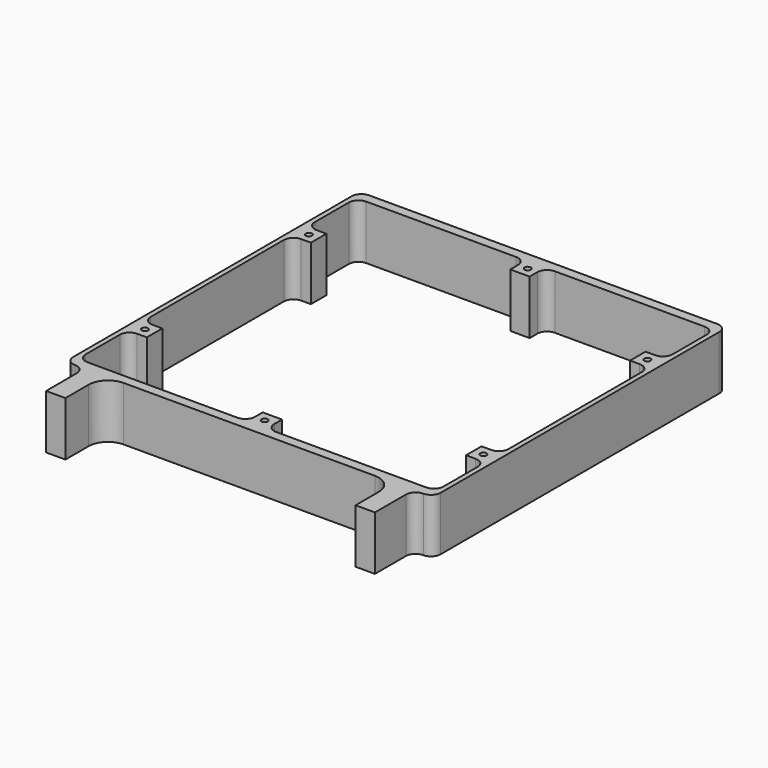
from build123d import *

# Parameters (mm, degrees)
F0_R     = 1.016
F1_DEPTH = 17.78


with BuildPart() as f1:
    # F0 (on Top) → F1 (new body)
    with BuildSketch(Plane.XY):
        with BuildLine():
            Line((57.15, 60.325), (-57.15, 60.325))
            ThreePointArc((-57.15, 60.325), (-59.395064, 59.395064), (-60.325, 57.15))
            Line((-60.325, 57.15), (-60.325, -57.15))
            ThreePointArc((-60.325, -57.15), (-59.395064, -59.395064), (-57.15, -60.325))
            ThreePointArc((-57.15, -60.325), (-54.904936, -61.254936), (-53.975, -63.5))
            Line((-53.975, -63.5), (-53.975, -76.2))
            Line((-53.975, -76.2), (-47.625, -76.2))
            Line((-47.625, -76.2), (-47.625, -66.675))
            ThreePointArc((-47.625, -66.675), (-45.765128, -62.184872), (-41.275, -60.325))
            Line((-41.275, -60.325), (41.275, -60.325))
            ThreePointArc((41.275, -60.325), (45.765128, -62.184872), (47.625, -66.675))
            Line((47.625, -66.675), (47.625, -76.2))
            Line((47.625, -76.2), (53.975, -76.2))
            Line((53.975, -76.2), (53.975, -63.5))
            ThreePointArc((53.975, -63.5), (54.904936, -61.254936), (57.15, -60.325))
            ThreePointArc((57.15, -60.325), (59.395064, -59.395064), (60.325, -57.15))
            Line((60.325, -57.15), (60.325, 57.15))
            ThreePointArc((60.325, 57.15), (59.395064, 59.395064), (57.15, 60.325))
        make_face()
        with Locations((-55.5625, -33.655)):
            Circle(F0_R, mode=Mode.SUBTRACT)
        with Locations((0, -53.975)):
            Circle(F0_R, mode=Mode.SUBTRACT)
        with Locations((55.5625, -33.655)):
            Circle(F0_R, mode=Mode.SUBTRACT)
        with Locations((-55.5625, 33.655)):
            Circle(F0_R, mode=Mode.SUBTRACT)
        with BuildLine():
            ThreePointArc((-58.7375, 53.975), (-57.807564, 56.220064), (-55.5625, 57.15))
            Line((-55.5625, 57.15), (-6.35, 57.15))
            ThreePointArc((-6.35, 57.15), (-4.104936, 56.220064), (-3.175, 53.975))
            Line((-3.175, 53.975), (-3.175, 50.8))
            Line((-3.175, 50.8), (3.175, 50.8))
            Line((3.175, 50.8), (3.175, 53.975))
            ThreePointArc((3.175, 53.975), (4.104936, 56.220064), (6.35, 57.15))
            Line((6.35, 57.15), (55.5625, 57.15))
            ThreePointArc((55.5625, 57.15), (57.807564, 56.220064), (58.7375, 53.975))
            Line((58.7375, 53.975), (58.7375, 40.005))
            ThreePointArc((58.7375, 40.005), (57.807564, 37.759936), (55.5625, 36.83))
            Line((55.5625, 36.83), (52.3875, 36.83))
            Line((52.3875, 36.83), (52.3875, 30.48))
            Line((52.3875, 30.48), (55.5625, 30.48))
            ThreePointArc((55.5625, 30.48), (57.807564, 29.550064), (58.7375, 27.305))
            Line((58.7375, 27.305), (58.7375, -27.305))
            ThreePointArc((58.7375, -27.305), (57.807564, -29.550064), (55.5625, -30.48))
            Line((55.5625, -30.48), (52.3875, -30.48))
            Line((52.3875, -30.48), (52.3875, -36.83))
            Line((52.3875, -36.83), (55.5625, -36.83))
            ThreePointArc((55.5625, -36.83), (57.807564, -37.759936), (58.7375, -40.005))
            Line((58.7375, -40.005), (58.7375, -53.975))
            ThreePointArc((58.7375, -53.975), (57.807564, -56.220064), (55.5625, -57.15))
            Line((55.5625, -57.15), (6.35, -57.15))
            ThreePointArc((6.35, -57.15), (4.104936, -56.220064), (3.175, -53.975))
            Line((3.175, -53.975), (3.175, -50.8))
            Line((3.175, -50.8), (-3.175, -50.8))
            Line((-3.175, -50.8), (-3.175, -53.975))
            ThreePointArc((-3.175, -53.975), (-4.104936, -56.220064), (-6.35, -57.15))
            Line((-6.35, -57.15), (-55.5625, -57.15))
            ThreePointArc((-55.5625, -57.15), (-57.807564, -56.220064), (-58.7375, -53.975))
            Line((-58.7375, -53.975), (-58.7375, -40.005))
            ThreePointArc((-58.7375, -40.005), (-57.807564, -37.759936), (-55.5625, -36.83))
            Line((-55.5625, -36.83), (-52.3875, -36.83))
            Line((-52.3875, -36.83), (-52.3875, -30.48))
            Line((-52.3875, -30.48), (-55.5625, -30.48))
            ThreePointArc((-55.5625, -30.48), (-57.807564, -29.550064), (-58.7375, -27.305))
            Line((-58.7375, -27.305), (-58.7375, 27.305))
            ThreePointArc((-58.7375, 27.305), (-57.807564, 29.550064), (-55.5625, 30.48))
            Line((-55.5625, 30.48), (-52.3875, 30.48))
            Line((-52.3875, 30.48), (-52.3875, 36.83))
            Line((-52.3875, 36.83), (-55.5625, 36.83))
            ThreePointArc((-55.5625, 36.83), (-57.807564, 37.759936), (-58.7375, 40.005))
            Line((-58.7375, 40.005), (-58.7375, 53.975))
        make_face(mode=Mode.SUBTRACT)
        with Locations((0, 53.975)):
            Circle(F0_R, mode=Mode.SUBTRACT)
        with Locations((55.5625, 33.655)):
            Circle(F0_R, mode=Mode.SUBTRACT)
    extrude(amount=F1_DEPTH)


solid = f1.part
